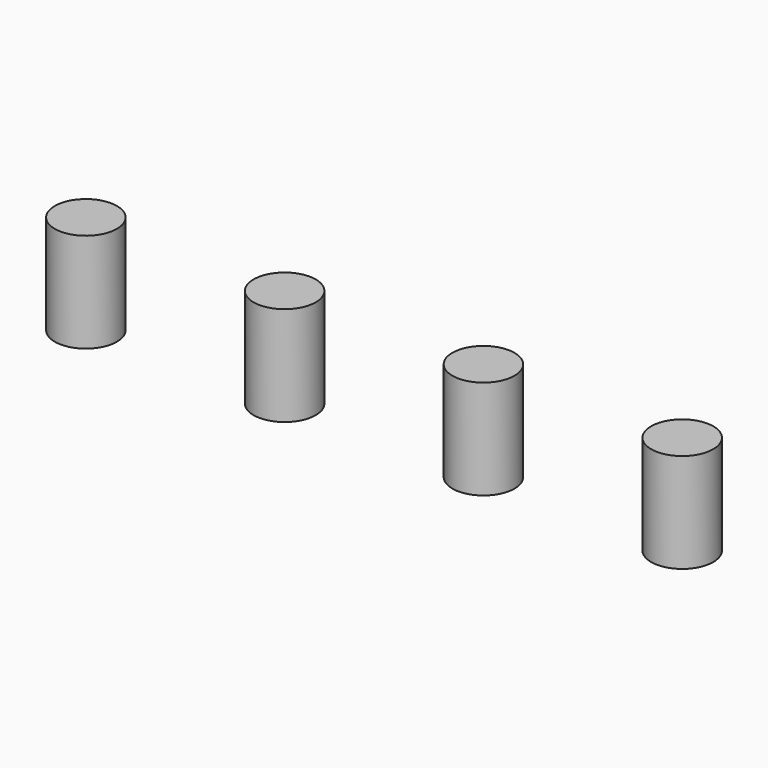
from build123d import *

# Parameters (mm, degrees)
F0_R     = 2.5
F1_DEPTH = 8


with BuildPart() as f1:
    # F0 (on Top) → F1 (new body)
    with BuildSketch(Plane.XY):
        with Locations((-13.902737, -20.180438)):
            Circle(F0_R)
    extrude(amount=F1_DEPTH)


with BuildPart() as f2_1:
    # F2: copy of F1
    add(f1.part.moved(Location((16, 0, 0))))


with BuildPart() as f3_1:
    # F3: copy of F2_1
    add(f2_1.part.moved(Location((16, 0, 0))))


with BuildPart() as f4_1:
    # F4: copy of F3_1
    add(f3_1.part.moved(Location((16, 0, 0))))


solid = Compound([f1.part, f2_1.part, f3_1.part, f4_1.part])
